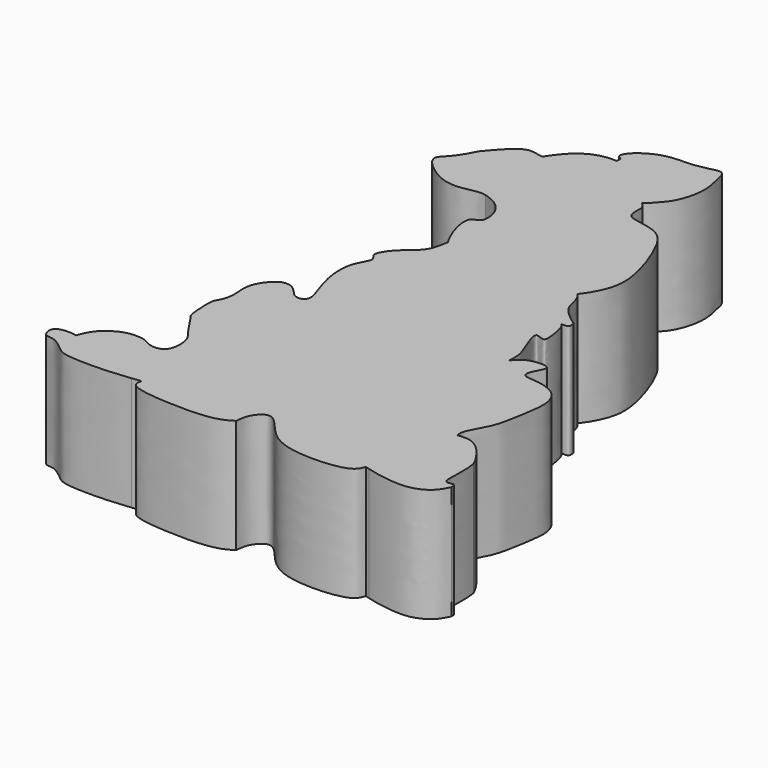
from build123d import *

# Parameters (mm, degrees)
F1_DEPTH = 6


with BuildPart() as f1:
    # F0 (on Top) → F1 (new body)
    with BuildSketch(Plane.XY):
        with BuildLine():
            add(Edge.make_bspline(
                [(-5.1435623318, 11.6598363966), (-4.889383909, 12.055224952), (-4.2392207464, 12.9547613294), (-3.1490368622, 13.3254473), (-2.5272412681, 13.2676063314)],
                knots=[0, 0, 0, 0, 0.4862311521, 1, 1, 1, 1], degree=3))
            add(Edge.make_bspline(
                [(-5.1435623318, 11.6598363966), (-5.3744623819, 11.6550202138), (-6.1496301682, 12.0622129794), (-7.0081791715, 10.9499799204), (-7.4804467149, 10.3929461911)],
                knots=[0, 0, 0, 0, 0.3963778635, 1, 1, 1, 1], degree=3))
            add(Edge.make_bspline(
                [(-7.4804467149, 10.3929461911), (-7.6784975617, 9.9955282471), (-8.0509124621, 9.3378631865), (-8.7550136313, 8.7983759797), (-7.986585448, 7.9913132449), (-7.0387627173, 7.4244428077), (-6.0373205228, 7.325536842), (-5.23923945, 7.6106048254), (-4.8241969198, 7.5275962275)],
                knots=[0, 0, 0, 0, 0.1848489095, 0.3206865187, 0.4765958496, 0.6536128324, 0.8165620551, 1, 1, 1, 1], degree=3))
            add(Edge.make_bspline(
                [(-4.8241969198, 7.5275962275), (-4.6073215054, 7.4531720941), (-4.1351244365, 7.291625806), (-3.4840545767, 6.6262803612), (-3.4178361352, 5.5116478972), (-4.2363770807, 5.5918885944), (-3.9105399004, 4.1916096848), (-3.5175783054, 3.435479133), (-3.4132565701, 3.2660174825)],
                knots=[0, 0, 0, 0, 0.1113050081, 0.2391922434, 0.3633436331, 0.4510476989, 0.6207524948, 0.674360518, 0.674360518, 0.674360518, 0.674360518], degree=3))
            add(Edge.make_bspline(
                [(-3.4132565701, 3.2660174825), (-3.1426242174, 2.8263985956), (-2.3515290066, 1.9869557521), (-1.1129175859, 1.3709573541), (-0.5961204297, 1.2888366158)],
                knots=[0.674360518, 0.674360518, 0.674360518, 0.674360518, 0.8134309177, 1, 1, 1, 1], degree=3))
            add(Edge.make_bspline(
                [(-0.5961204297, 1.2888366158), (-0.2474562779, 1.3228104575), (-0.1243316829, 1.4121378525), (2.017163, 1.3529696525), (3.0995873444, 2.3818082831), (3.5196765171, 2.8475420814), (3.635097851, 2.9919221244)],
                knots=[0, 0, 0, 0, 0.0584720007, 0.1615263848, 0.2598364591, 0.3013597751, 0.3013597751, 0.3013597751, 0.3013597751], degree=3))
            add(Edge.make_bspline(
                [(3.635097851, 2.9919221244), (3.7371629533, 3.1195949154), (4.0662775773, 3.5794650328), (4.6241821591, 4.7585115051), (4.2395014226, 6.536771726), (3.7446471113, 7.8806876088), (2.9693415838, 9.422301766), (1.5377482792, 9.5913638555), (0.8385427887, 9.7948813978), (0.9427243763, 10.5323806704), (0.8554394486, 10.7754806944), (0.7100959107, 10.9307258579), (0.6486951505, 10.9714605978)],
                knots=[0.3013597751, 0.3013597751, 0.3013597751, 0.3013597751, 0.3380781299, 0.428868175, 0.5288038445, 0.6210194346, 0.7161717589, 0.8040728137, 0.862643826, 0.9221760672, 0.9612722692, 1, 1, 1, 1], degree=3))
            add(Edge.make_bspline(
                [(-2.5272412681, 13.2676063314), (-2.4977936967, 13.3753956761), (-2.4619256958, 13.550091653), (-2.7728565878, 13.6139907301), (-2.6461178617, 14.1361166501), (-1.4180744712, 15.0012414776), (-0.0131634847, 14.9232987622), (0.3284728241, 15.0063040062), (0.9093615893, 15.0728586588), (1.5772035067, 15.3312045716), (1.776227312, 14.5017652838), (2.0278486833, 13.4072763616), (1.6442240567, 12.0339593346), (1.1574315188, 11.500653889), (0.798033788, 11.0800645827), (0.6486951505, 10.9714605978)],
                knots=[0, 0, 0, 0, 0.0464518771, 0.0888129947, 0.1453391479, 0.257957268, 0.3656963123, 0.4197093893, 0.4903017646, 0.5601379547, 0.6348287235, 0.7357138746, 0.843357048, 0.9231511157, 1, 1, 1, 1], degree=3))
        make_face()
        with BuildLine():
            add(Edge.make_bspline(
                [(3.635097851, 2.9919221244), (3.7857164883, 2.8594618643), (3.9706594229, 2.4335113179), (4.0528976339, 1.6768810024), (4.7147166915, 1.1634156108), (5.1467875019, 0.8450473542)],
                knots=[0, 0, 0, 0, 0.2824450285, 0.5830240761, 1, 1, 1, 1], degree=3))
            add(Edge.make_bspline(
                [(-0.5961204297, 1.2888366158), (-0.2474562779, 1.3228104575), (-0.1243316829, 1.4121378525), (2.017163, 1.3529696525), (3.0995873444, 2.3818082831), (3.5196765171, 2.8475420814), (3.635097851, 2.9919221244)],
                knots=[0, 0, 0, 0, 0.0584720007, 0.1615263848, 0.2598364591, 0.3013597751, 0.3013597751, 0.3013597751, 0.3013597751], degree=3))
            add(Edge.make_bspline(
                [(-3.4132565701, 3.2660174825), (-3.1426242174, 2.8263985956), (-2.3515290066, 1.9869557521), (-1.1129175859, 1.3709573541), (-0.5961204297, 1.2888366158)],
                knots=[0.674360518, 0.674360518, 0.674360518, 0.674360518, 0.8134309177, 1, 1, 1, 1], degree=3))
            add(Edge.make_bspline(
                [(-3.4132565701, 3.2660174825), (-3.4315941748, 3.1577744216), (-3.4714074075, 2.8990010473), (-3.6547756009, 2.096977181), (-4.5869137108, 1.5214530813), (-5.3009953367, 0.5006071287), (-4.6889414068, 0.1552437953), (-5.4436193715, -0.7331233402), (-5.3119631642, -2.3790533398), (-4.8826672061, -3.5115479457), (-4.7408875979, -3.9531045414), (-4.7358466965, -4.1921009037), (-4.7831181437, -4.2779999785)],
                knots=[0, 0, 0, 0, 0.0516888601, 0.126118905, 0.2190309329, 0.3067827806, 0.3619260565, 0.4447387258, 0.5566432539, 0.6514913224, 0.7090155907, 0.7563303667, 0.7563303667, 0.7563303667, 0.7563303667], degree=3))
            add(Edge.make_bspline(
                [(-4.7831181437, -4.2779999785), (-4.6591449526, -4.3661702564), (-4.3312155018, -4.599395122), (-5.1573761179, -5.6687797155), (-4.7002039893, -6.5810204452), (-4.6933534273, -7.6797769396), (-5.3822272202, -10.0575387351), (-5.4831590367, -10.6975372555), (-4.9813160075, -10.7337633426), (-5.3341832802, -11.5710822638), (-6.1386609112, -12.4109904024), (-6.0555680185, -13.644695521), (-6.0088984103, -14.3350005514)],
                knots=[0, 0, 0, 0, 0.0653350895, 0.172822042, 0.2699766727, 0.3787036092, 0.5404048914, 0.6123210063, 0.6663067951, 0.7505993379, 0.8604305898, 0.9998780309, 0.9998780309, 0.9998780309, 0.9998780309], degree=3))
            add(Edge.make_bspline(
                [(-6.0088984092, -14.3350005514), (-5.8431219906, -14.3143561041), (-5.6838038883, -14.2926668236), (-5.5241566151, -14.2709799111)],
                knots=[0.9427531347, 0.9427531347, 0.9427531347, 0.9427531347, 1, 1, 1, 1], degree=3))
            add(Edge.make_bspline(
                [(-5.5241566151, -14.2709799111), (-5.5542454141, -14.4041233954), (-5.6353393667, -14.7629656144), (-4.4246198371, -15.1083654166), (-1.174553618, -15.1838605837), (-0.5082994444, -14.758528745), (-0.2717525349, -14.6075189114)],
                knots=[0, 0, 0, 0, 0.1365834564, 0.3681134742, 0.7756549816, 1, 1, 1, 1], degree=3))
            add(Edge.make_bspline(
                [(-0.2717525349, -14.6075189114), (-0.2430792829, -14.3677678437), (-0.2088888224, -13.8814411291), (0.5364592868, -13.1019501031), (1.409458804, -14.1869282165), (2.6109474523, -15.4237947074), (6.1787946723, -15.2782472671), (6.3935613739, -14.6691779495), (6.4590172842, -14.4753074273)],
                knots=[0, 0, 0, 0, 0.1277258416, 0.2583202442, 0.4123863949, 0.6130041291, 0.8789596043, 1, 1, 1, 1], degree=3))
            add(Edge.make_bspline(
                [(6.4590172842, -14.4753074273), (6.5318015744, -14.4961221571), (6.6045858646, -14.5169368868), (6.6809157002, -14.5378814723)],
                knots=[0, 0, 0, 0, 0.0710888317, 0.0710888317, 0.0710888317, 0.0710888317], degree=3))
            add(Edge.make_bspline(
                [(5.1466962323, -3.3741160296), (5.0948305096, -3.4807787207), (4.9597065908, -3.7586632284), (4.551664356, -4.7156170548), (4.4110048301, -6.3752771126), (5.0623299804, -7.6267776356), (6.1563712178, -8.6674910333), (5.9954507681, -9.8448373201), (6.1584629067, -11.1018289599), (6.8195755926, -12.0285921013), (6.8859991285, -13.025841518), (6.3818015409, -13.1551248356), (6.902919704, -13.6299889818), (6.7627697795, -14.2034830311), (6.6809156899, -14.53788147)],
                knots=[0, 0, 0, 0, 0.0539859253, 0.1406476072, 0.2504498413, 0.3521083737, 0.4535209502, 0.5437992881, 0.639142848, 0.7322996513, 0.811318147, 0.857982685, 0.9171777205, 0.9999318419, 0.9999318419, 0.9999318419, 0.9999318419], degree=3))
            add(Edge.make_bspline(
                [(4.7861207277, 0.4960809601), (4.8387358491, 0.4465267389), (4.9945720142, 0.2968988275), (5.1952862465, -0.7435906904), (5.1007181467, -1.1475297715), (4.3049719075, -0.608961485), (4.9966711874, -2.2254934081), (5.1648832815, -2.7501538191), (5.1524147391, -3.1726009895), (5.1466962323, -3.3741160296)],
                knots=[0, 0, 0, 0, 0.0951828466, 0.2860941333, 0.3809323061, 0.5022114851, 0.707213667, 0.8603345386, 1, 1, 1, 1], degree=3))
            add(Edge.make_bspline(
                [(5.1467875019, 0.8450473542), (5.1732379253, 0.7235665831), (5.2254188705, 0.4715701646), (4.9418648339, 0.4868491525), (4.7861207277, 0.4960809601)],
                knots=[0, 0, 0, 0, 0.4762655899, 1, 1, 1, 1], degree=3))
        make_face()
        with BuildLine():
            add(Edge.make_bspline(
                [(-0.3466503404, -5.0943419337), (-0.4971497327, -5.0901113902), (-0.8923720828, -6.4258753473), (-1.0559167524, -7.5666694037), (-0.9968671618, -8.9476416833), (-1.0804542392, -10.1918236852), (-1.1007302697, -13.1412850504), (0.143449155, -10.7919416266), (1.4105074318, -11.4976732662), (1.4943958904, -12.7366808606), (1.8837333085, -12.4212989372), (1.9369501004, -11.6527214446), (1.8633234272, -9.8045683476), (2.1029087152, -8.823406592), (1.6570727925, -7.3422586396), (1.3541308128, -6.1881420921), (0.9021823742, -5.3238534059), (0.5885719962, -5.0864904522), (0.4941124159, -5.9480246063), (-0.083928885, -5.7105274636), (-0.2390408983, -5.0973668392), (-0.3466503404, -5.0943419337)],
                knots=[0, 0, 0, 0, 0.0590387727, 0.1207623943, 0.1796466208, 0.2452432404, 0.316446961, 0.3801593075, 0.435125363, 0.4873182569, 0.5123992575, 0.5585155107, 0.6301706307, 0.6840915254, 0.747874681, 0.8075747456, 0.8591062893, 0.8825982761, 0.9236578897, 0.9577863452, 1, 1, 1, 1], degree=3))
        make_face(mode=Mode.SUBTRACT)
        with BuildLine():
            add(Edge.make_bspline(
                [(-4.7831181437, -4.2779999785), (-4.6591449526, -4.3661702564), (-4.3312155018, -4.599395122), (-5.1573761179, -5.6687797155), (-4.7002039893, -6.5810204452), (-4.6933534273, -7.6797769396), (-5.3822272202, -10.0575387351), (-5.4831590367, -10.6975372555), (-4.9813160075, -10.7337633426), (-5.3341832802, -11.5710822638), (-6.1386609112, -12.4109904024), (-6.0555680185, -13.644695521), (-6.0088984103, -14.3350005514)],
                knots=[0, 0, 0, 0, 0.0653350895, 0.172822042, 0.2699766727, 0.3787036092, 0.5404048914, 0.6123210063, 0.6663067951, 0.7505993379, 0.8604305898, 0.9998780309, 0.9998780309, 0.9998780309, 0.9998780309], degree=3))
            add(Edge.make_bspline(
                [(-4.7831181437, -4.2779999785), (-4.8305283879, -4.3641512675), (-5.0373238378, -4.5003732865), (-5.4590912079, -4.4016827594), (-5.8838567769, -3.7364157085), (-6.3460562669, -3.7323398744), (-6.5769343637, -3.7920258474)],
                knots=[0.7563303667, 0.7563303667, 0.7563303667, 0.7563303667, 0.803784067, 0.8572394006, 0.9307583391, 1, 1, 1, 1], degree=3))
            add(Edge.make_bspline(
                [(-6.5769343637, -3.7920258474), (-7.2066283138, -4.2129431053), (-7.4882715127, -5.1130309824), (-7.3399242797, -5.7057335675), (-7.4270481681, -6.4689140338), (-7.721059356, -6.8039130725), (-7.7197655036, -7.4109175232), (-7.6508382338, -8.485614838), (-7.5665120967, -8.4731308743)],
                knots=[0, 0, 0, 0, 0.2359882547, 0.3807677367, 0.5391634052, 0.6573351041, 0.814793931, 1, 1, 1, 1], degree=3))
            add(Edge.make_bspline(
                [(-7.5665120967, -8.4731308743), (-7.4015841558, -8.7327389017), (-7.0885037186, -9.2299757298), (-6.6064938589, -9.868368568), (-6.3421315195, -10.2242601681), (-6.2872333554, -11.061574528), (-6.5790174055, -11.5838928928), (-7.2801592808, -11.6163429442), (-7.7003005197, -11.2383220108), (-8.6891637424, -11.2352951524), (-9.2436169439, -11.5397624201), (-9.772074371, -11.8865477241), (-10.0722052088, -12.4474600669), (-10.1768113673, -12.7653870732)],
                knots=[0, 0, 0, 0, 0.1047474067, 0.2008263875, 0.2733687119, 0.3706804097, 0.4509418125, 0.5348854889, 0.6162294506, 0.7213081833, 0.808086765, 0.8929950918, 1, 1, 1, 1], degree=3))
            add(Edge.make_bspline(
                [(-10.1768113673, -12.7653870732), (-10.5755810123, -12.6974406552), (-11.1858945803, -12.7090205407), (-11.3804990777, -13.1553910117), (-11.1629388404, -13.6235770695), (-10.7109991859, -13.508978331), (-9.9735301591, -14.0750007516), (-9.5613423708, -14.4858072845), (-7.3610700524, -14.4820425017), (-6.3463467316, -14.3770236217), (-6.0088984092, -14.3350005514)],
                knots=[0, 0, 0, 0, 0.1338159557, 0.2169700908, 0.3035723154, 0.388825349, 0.5141856927, 0.6180893531, 0.8262235412, 0.9427531347, 0.9427531347, 0.9427531347, 0.9427531347], degree=3))
        make_face()
        with BuildLine():
            add(Edge.make_bspline(
                [(-0.3466503404, -5.0943419337), (-0.4971497327, -5.0901113902), (-0.8923720828, -6.4258753473), (-1.0559167524, -7.5666694037), (-0.9968671618, -8.9476416833), (-1.0804542392, -10.1918236852), (-1.1007302697, -13.1412850504), (0.143449155, -10.7919416266), (1.4105074318, -11.4976732662), (1.4943958904, -12.7366808606), (1.8837333085, -12.4212989372), (1.9369501004, -11.6527214446), (1.8633234272, -9.8045683476), (2.1029087152, -8.823406592), (1.6570727925, -7.3422586396), (1.3541308128, -6.1881420921), (0.9021823742, -5.3238534059), (0.5885719962, -5.0864904522), (0.4941124159, -5.9480246063), (-0.083928885, -5.7105274636), (-0.2390408983, -5.0973668392), (-0.3466503404, -5.0943419337)],
                knots=[0, 0, 0, 0, 0.0590387727, 0.1207623943, 0.1796466208, 0.2452432404, 0.316446961, 0.3801593075, 0.435125363, 0.4873182569, 0.5123992575, 0.5585155107, 0.6301706307, 0.6840915254, 0.747874681, 0.8075747456, 0.8591062893, 0.8825982761, 0.9236578897, 0.9577863452, 1, 1, 1, 1], degree=3))
        make_face()
        with BuildLine():
            add(Edge.make_bspline(
                [(7.6421494596, -9.9167460576), (7.6220100194, -9.8080579129), (7.5678597792, -9.5158159716), (8.1906602964, -8.5402075197), (8.4435618428, -7.6801534786), (8.695092685, -6.1522367034), (8.7582027719, -5.2340603214), (8.3160964166, -4.3795436006), (7.1741319267, -4.0853354277), (6.375380425, -4.128388236), (6.4766093819, -3.5273529734), (7.0198787723, -2.7605426394), (5.9628545564, -2.7825460162), (5.4742598695, -2.997658626), (5.2551561244, -3.253143783), (5.1466962323, -3.3741160296)],
                knots=[0, 0, 0, 0, 0.0529186655, 0.1438333362, 0.2302857374, 0.3380073202, 0.4220818104, 0.5025244018, 0.597214258, 0.6669352116, 0.7268579471, 0.7985397526, 0.8730064885, 0.9397085926, 1, 1, 1, 1], degree=3))
            add(Edge.make_bspline(
                [(5.1466962323, -3.3741160296), (5.0948305096, -3.4807787207), (4.9597065908, -3.7586632284), (4.551664356, -4.7156170548), (4.4110048301, -6.3752771126), (5.0623299804, -7.6267776356), (6.1563712178, -8.6674910333), (5.9954507681, -9.8448373201), (6.1584629067, -11.1018289599), (6.8195755926, -12.0285921013), (6.8859991285, -13.025841518), (6.3818015409, -13.1551248356), (6.902919704, -13.6299889818), (6.7627697795, -14.2034830311), (6.6809156899, -14.53788147)],
                knots=[0, 0, 0, 0, 0.0539859253, 0.1406476072, 0.2504498413, 0.3521083737, 0.4535209502, 0.5437992881, 0.639142848, 0.7322996513, 0.811318147, 0.857982685, 0.9171777205, 0.9999318419, 0.9999318419, 0.9999318419, 0.9999318419], degree=3))
            add(Edge.make_bspline(
                [(6.6809157002, -14.5378814723), (6.8370815175, -14.5807327149), (7.3841854126, -14.7195660596), (8.9585503669, -14.9624392239), (10.0143088412, -14.3600720342), (10.2387757299, -13.8971478325), (10.3372810408, -13.6939976364)],
                knots=[0.0710888317, 0.0710888317, 0.0710888317, 0.0710888317, 0.2165319, 0.5364060615, 0.7965558959, 1, 1, 1, 1], degree=3))
            add(Edge.make_bspline(
                [(10.3372810408, -13.6939976364), (10.351180167, -13.5585150587), (10.3364489373, -13.344823599), (9.561783511, -13.7047636218), (9.905025363, -12.4381091446), (9.754945524, -11.51618734)],
                knots=[0, 0, 0, 0, 0.2029740522, 0.4473584147, 1, 1, 1, 1], degree=3))
            add(Edge.make_bspline(
                [(9.754945524, -11.51618734), (9.6291273206, -11.1896365652), (9.1594057032, -10.5075123168), (8.7058203783, -10.1002871966), (8.2335119913, -9.8684424984), (7.8496336414, -9.8987880974), (7.6421494596, -9.9167460576)],
                knots=[0, 0, 0, 0, 0.324179577, 0.5607097538, 0.7696452834, 1, 1, 1, 1], degree=3))
        make_face()
    extrude(amount=F1_DEPTH)


solid = f1.part
